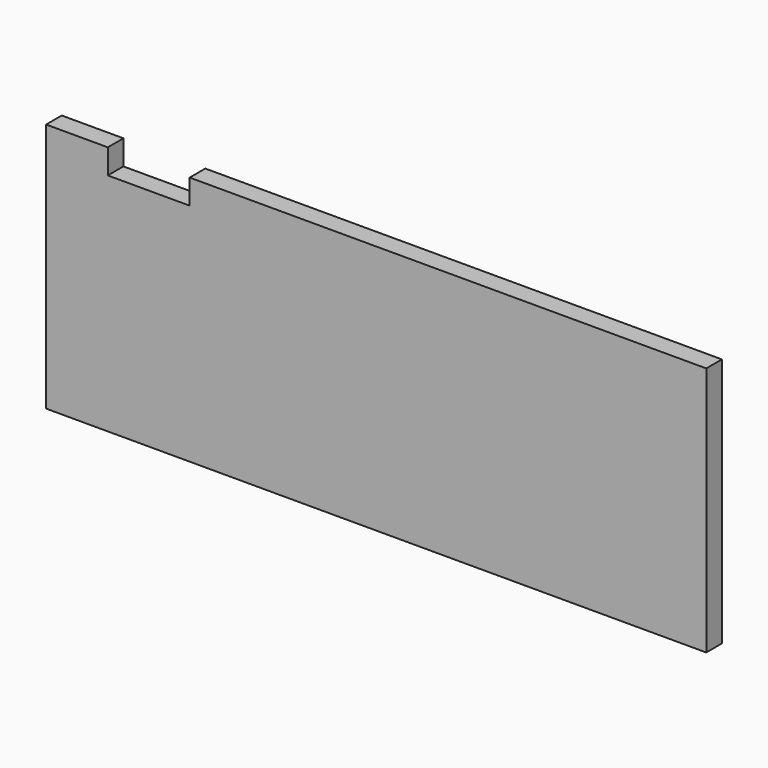
from build123d import *

# Parameters (mm, degrees)
F0_W      = 7268.37002
F0_H      = 4074.32002
F0_W_2    = 6861.97002
F0_H_2    = 3667.92002
F1_DEPTH  = 2599.53252
F2_W      = 431.8
F2_H      = 133.35
F3_DEPTH  = 203.2
F4_W      = 304.8
F4_H      = 254
F5_DEPTH  = 203.2
F6_DEPTH  = 381
F7_DEPTH  = 254
F8_DEPTH  = 106.68
F9_DEPTH  = 38.1
F10_DEPTH = 17.14627
F11_DEPTH = 3871.12002
F12_DEPTH = 203.2
F13_DEPTH = 203.2


with BuildPart() as f1:
    # F0 (on Top) → F1 (new body)
    with BuildSketch(Plane.XY):
        with Locations((3634.18501, 2037.16001)):
            Rectangle(F0_W, F0_H)
        with Locations((3634.18501, 2037.16001)):
            Rectangle(F0_W_2, F0_H_2, mode=Mode.SUBTRACT)
    extrude(amount=F1_DEPTH)

    # F2 (on Front) → F3 (cut)
    with BuildSketch(Plane.XZ):
        with Locations((1479.55, 2409.03125)):
            Rectangle(F2_W, F2_H)
    extrude(amount=-F3_DEPTH, mode=Mode.SUBTRACT)

    # F4 (on face) → F5 (cut)
    with BuildSketch(Plane(origin=(0, 203.2, 0), x_dir=(-1, 0, 0), z_dir=(0, 1, 0))):
        with Locations((-6077.74502, 2362.2)):
            Rectangle(F4_W, F4_H)
    extrude(amount=-F5_DEPTH, mode=Mode.SUBTRACT)

    # F6 (cut): a face of the model
    f6_faces = [f1.faces().sort_by_distance(p)[0] for p in [
        (1263.65, 101.6, 2409.03125),
    ]]
    extrude(f6_faces, amount=-F6_DEPTH, mode=Mode.SUBTRACT)

    # F7 (add, through all): a face of the model
    f7_faces = [f1.faces().sort_by_distance(p)[0] for p in [
        (6077.74502, 101.6, 2235.2),
    ]]
    extrude(f7_faces, amount=F7_DEPTH)

    # F8 (cut): a face of the model
    f8_faces = [f1.faces().sort_by_distance(p)[0] for p in [
        (1289.05, 101.6, 2475.70625),
    ]]
    extrude(f8_faces, amount=-F8_DEPTH, mode=Mode.SUBTRACT)

    # F9 (cut): a face of the model
    f9_faces = [f1.faces().sort_by_distance(p)[0] for p in [
        (882.65, 101.6, 2462.37125),
    ]]
    extrude(f9_faces, amount=-F9_DEPTH, mode=Mode.SUBTRACT)

    # F10 (cut, through all): a face of the model
    f10_faces = [f1.faces().sort_by_distance(p)[0] for p in [
        (1270, 101.6, 2582.38625),
    ]]
    extrude(f10_faces, amount=-F10_DEPTH, mode=Mode.SUBTRACT)

    # F11 (cut, through all): a face of the model
    f11_faces = [f1.faces().sort_by_distance(p)[0] for p in [
        (3634.18501, 4074.32002, 1299.76626),
    ]]
    extrude(f11_faces, amount=-F11_DEPTH, mode=Mode.SUBTRACT)

    # F12 (cut): a face of the model
    f12_faces = [f1.faces().sort_by_distance(p)[0] for p in [
        (7268.37002, 101.6, 1299.76626),
    ]]
    extrude(f12_faces, amount=-F12_DEPTH, mode=Mode.SUBTRACT)

    # F13 (cut): a face of the model
    f13_faces = [f1.faces().sort_by_distance(p)[0] for p in [
        (0, 101.6, 1299.76626),
    ]]
    extrude(f13_faces, amount=-F13_DEPTH, mode=Mode.SUBTRACT)


solid = f1.part
